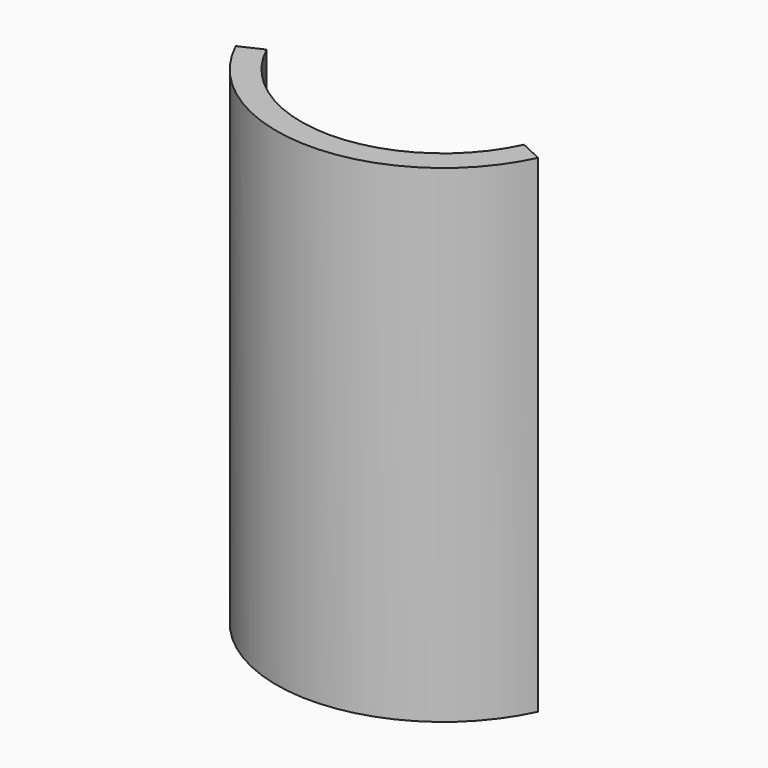
from build123d import *

# Parameters (mm, degrees)
F0_R     = 84.15
F0_R_2   = 71.65
F1_DEPTH = 246
F3_DEPTH = 246


with BuildPart() as f1:
    # F0 (on Top) → F1 (new body)
    with BuildSketch(Plane.XY):
        Circle(F0_R)
        Circle(F0_R_2, mode=Mode.SUBTRACT)
    extrude(amount=F1_DEPTH)

    # F2 (on face) → F3 (cut, through all)
    with BuildSketch(Plane.XY.offset(246)):
        with BuildLine():
            ThreePointArc((71.65, 0), (69.9516089101, -15.5078983387), (64.9369529412, -30.2805984537))
            Line((64.9369529412, -30.2805984537), (76.2658002791, -35.5633267255))
            ThreePointArc((76.2658002791, -35.5633267255), (82.1553089991, -18.2133935129), (84.15, 0))
            ThreePointArc((84.15, 0), (-18.2133935129, 82.1553089991), (-76.2658002791, -35.5633267255))
            Line((-76.2658002791, -35.5633267255), (-64.9369529412, -30.2805984537))
            ThreePointArc((-64.9369529412, -30.2805984537), (-15.5078983387, 69.9516089101), (71.65, 0))
        make_face()
    extrude(amount=-F3_DEPTH, mode=Mode.SUBTRACT)


solid = f1.part
